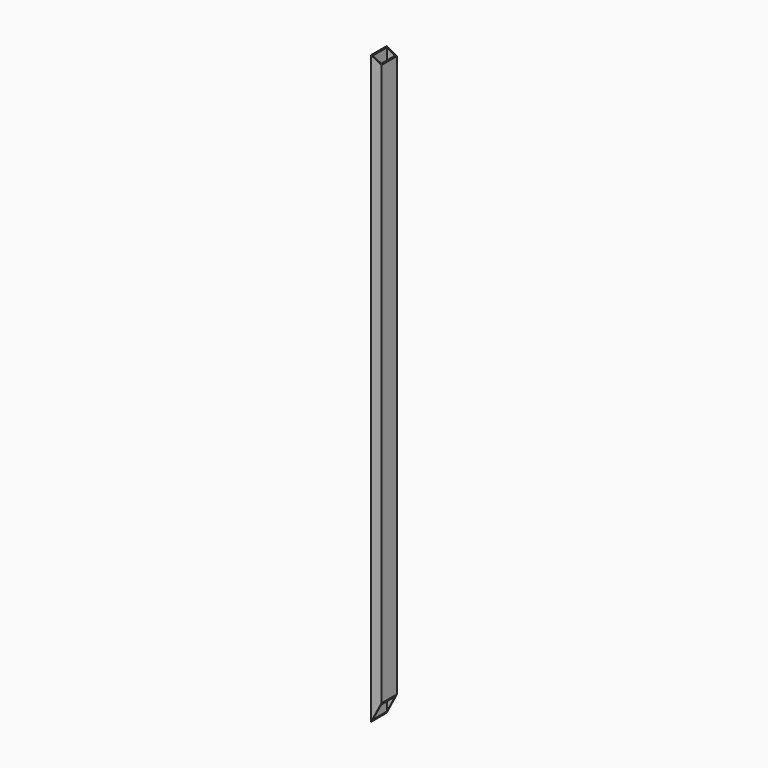
from build123d import *

# Parameters (mm, degrees)
F0_W     = 40
F0_H     = 75
F0_W_2   = 32
F0_H_2   = 67
F1_DEPTH = 2258.9
F3_DEPTH = 75
F5_DEPTH = 75


with BuildPart() as f1:
    # F0 (on Top) → F1 (new body)
    with BuildSketch(Plane.XY):
        with Locations((20, 37.5)):
            Rectangle(F0_W, F0_H)
        with Locations((20, 37.5)):
            Rectangle(F0_W_2, F0_H_2, mode=Mode.SUBTRACT)
    extrude(amount=F1_DEPTH)

    # F2 (on face) → F3 (cut, through all)
    with BuildSketch(Plane(origin=(0, 75, 0), x_dir=(-1, 0, 0), z_dir=(0, 1, 0))):
        Polygon((-40, 2237.899531), (0, 2258.9), (-40, 2258.9), align=None)
    extrude(amount=-F3_DEPTH, mode=Mode.SUBTRACT)

    # F4 (on face) → F5 (cut, through all)
    with BuildSketch(Plane(origin=(0, 75, 0), x_dir=(-1, 0, 0), z_dir=(0, 1, 0))):
        Polygon((-40, 0), (0, 0), (-40, 76.188773), align=None)
    extrude(amount=-F5_DEPTH, mode=Mode.SUBTRACT)


solid = f1.part
